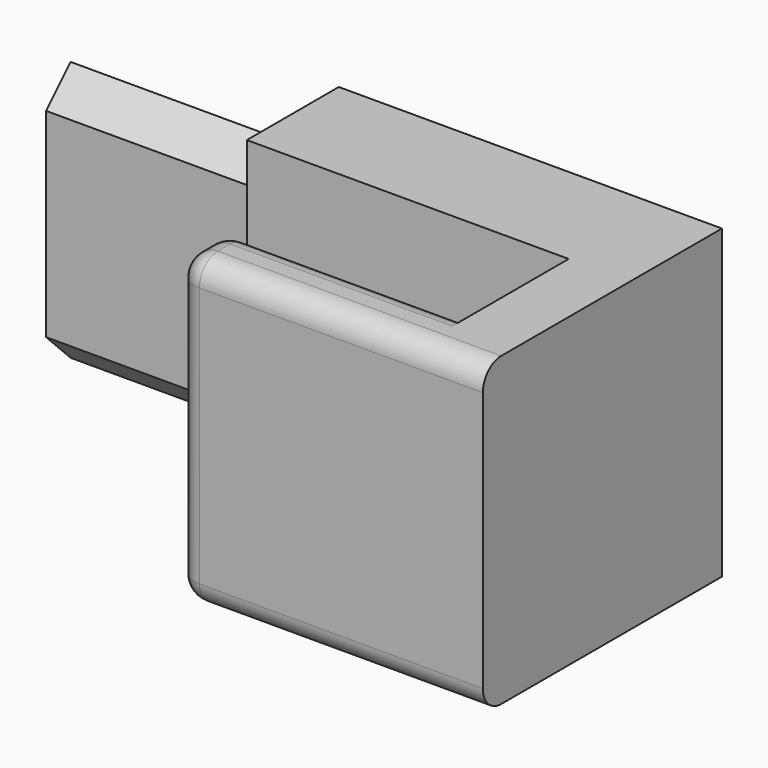
from build123d import *

# Parameters (mm, degrees)
SKETCH049_W             = 40
SKETCH049_H             = 15
PAD018_DEPTH            = 79
SKETCH050_W             = 40
SKETCH050_H             = 15
POCKET029_DEPTH         = 29
SKETCH051_W             = 40
SKETCH051_H             = 24
PAD019_DEPTH            = 40
SKETCH052_W             = 32
SKETCH052_H             = 16
POCKET030_DEPTH         = 40.001
FILLET008_R             = 3
BODY007_PLACEMENT_ANGLE = 90


with BuildPart() as part:
    # Sketch049 → Pad018 (new body)
    with BuildSketch(Plane.YZ):
        with Locations((20, 7.5)):
            Rectangle(SKETCH049_W, SKETCH049_H)
    extrude(amount=PAD018_DEPTH)

    # Sketch050 → Pocket029 (cut)
    with BuildSketch(Plane.YZ):
        with Locations((20, 7.5)):
            Rectangle(SKETCH050_W, SKETCH050_H)
        Polygon((3.5, 7.5), (7.5, 11.5), (33.5, 11.5), (37.5, 7.5), (33.5, 3.5), (7.5, 3.5), align=None, mode=Mode.SUBTRACT)
    extrude(amount=POCKET029_DEPTH, mode=Mode.SUBTRACT)

    # Sketch051 → Pad019 (join)
    with BuildSketch(Plane.XZ):
        with Locations((59, -12)):
            Rectangle(SKETCH051_W, SKETCH051_H)
    extrude(amount=-PAD019_DEPTH)

    # Sketch052 → Pocket030 (cut, through all)
    with BuildSketch(Plane.XZ):
        with Locations((55, -8)):
            Rectangle(SKETCH052_W, SKETCH052_H)
    extrude(amount=-POCKET030_DEPTH, mode=Mode.SUBTRACT)

    # Fillet008
    fillet008_edges = [part.edges().sort_by_distance(p)[0] for p in [
        (59, 40, -24),
        (39, 20, -24),
        (59, 0, -24),
        (39, 0, -20),
        (39, 40, -20),
        (39, 20, -16),
        (55, 0, -16),
        (55, 40, -16),
    ]]
    fillet(fillet008_edges, radius=FILLET008_R)


with BuildPart() as part_1:
    # Body007 placement: moved
    add(part.part.moved(Location((49.711133, -57.1, 20.293142))).rotate(Axis((49.711133, -57.1, 20.293142), (-1, 0, 0)), BODY007_PLACEMENT_ANGLE))


solid = part_1.part
